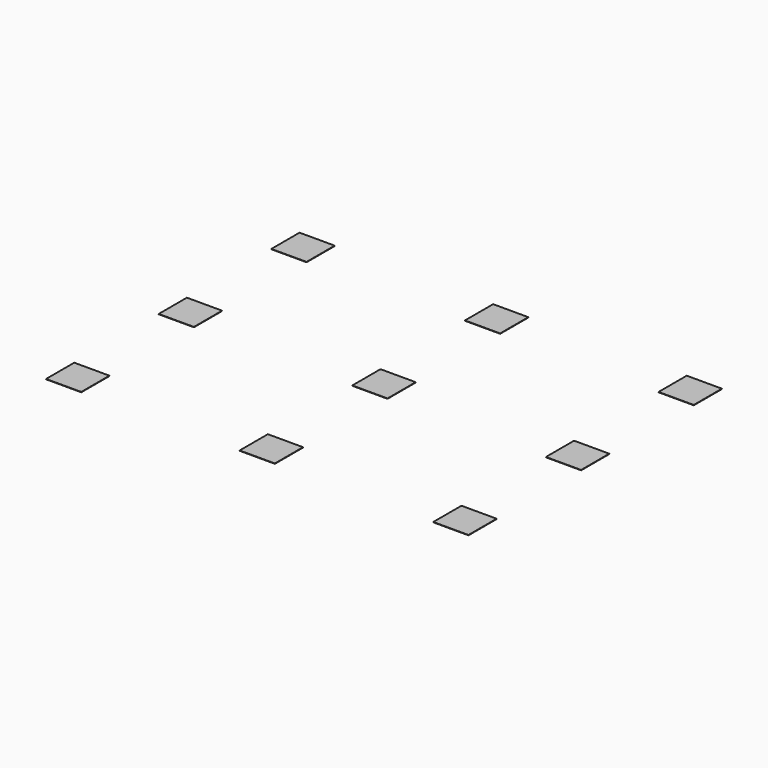
from build123d import *

# Parameters (mm, degrees)
F0_W     = 20
F0_H     = 20
F1_DEPTH = 0.2


with BuildPart() as f1:
    # F0 (on Top) → F1 (new body)
    with BuildSketch(Plane.XY):
        Rectangle(F0_W, F0_H)
        with Locations((0, 80)):
            Rectangle(F0_W, F0_H)
        with Locations((0, 160)):
            Rectangle(F0_W, F0_H)
        with Locations((110, 0)):
            Rectangle(F0_W, F0_H)
        with Locations((110, 80)):
            Rectangle(F0_W, F0_H)
        with Locations((110, 160)):
            Rectangle(F0_W, F0_H)
        with Locations((220, 0)):
            Rectangle(F0_W, F0_H)
        with Locations((220, 80)):
            Rectangle(F0_W, F0_H)
        with Locations((220, 160)):
            Rectangle(F0_W, F0_H)
    extrude(amount=F1_DEPTH)


solid = f1.part
